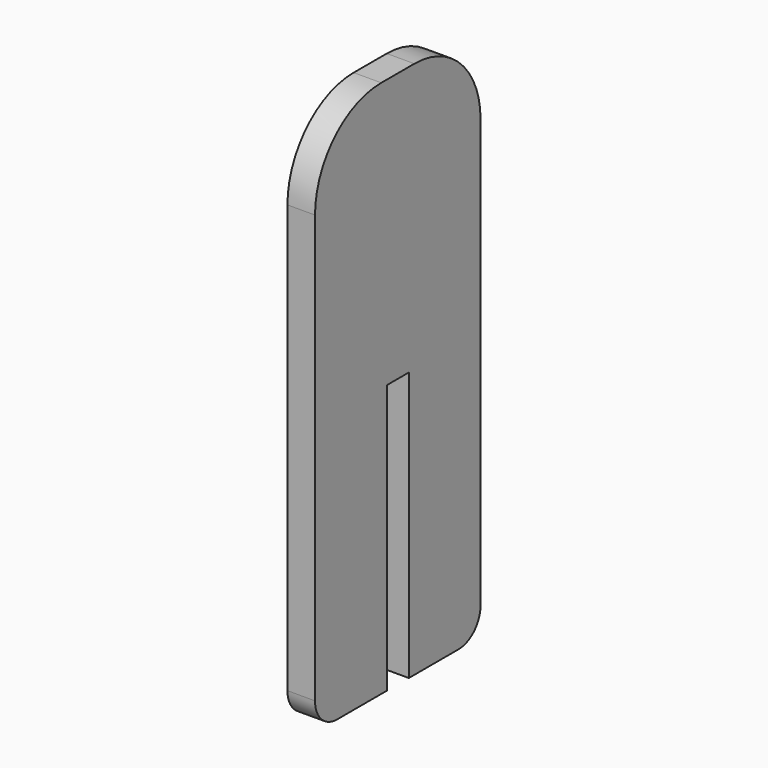
from build123d import *

# Parameters (mm, degrees)
F1_DEPTH = 3.175


with BuildPart() as f1:
    # F0 (on Right) → F1 (new body, symmetric)
    with BuildSketch(Plane.YZ):
        with BuildLine():
            Line((4.7625, 61.9125), (-4.7625, 61.9125))
            ThreePointArc((-4.7625, 61.9125), (-18.232884, 56.332884), (-23.8125, 42.8625))
            Line((-23.8125, 42.8625), (-23.8125, -55.5625))
            ThreePointArc((-23.8125, -55.5625), (-21.952628, -60.052628), (-17.4625, -61.9125))
            Line((-17.4625, -61.9125), (-3.175, -61.9125))
            Line((-3.175, -61.9125), (-3.175, 0))
            Line((-3.175, 0), (3.175, 0))
            Line((3.175, 0), (3.175, -61.9125))
            Line((3.175, -61.9125), (17.4625, -61.9125))
            ThreePointArc((17.4625, -61.9125), (21.952628, -60.052628), (23.8125, -55.5625))
            Line((23.8125, -55.5625), (23.8125, 42.8625))
            ThreePointArc((23.8125, 42.8625), (18.232884, 56.332884), (4.7625, 61.9125))
        make_face()
    extrude(amount=F1_DEPTH, both=True)


solid = f1.part
